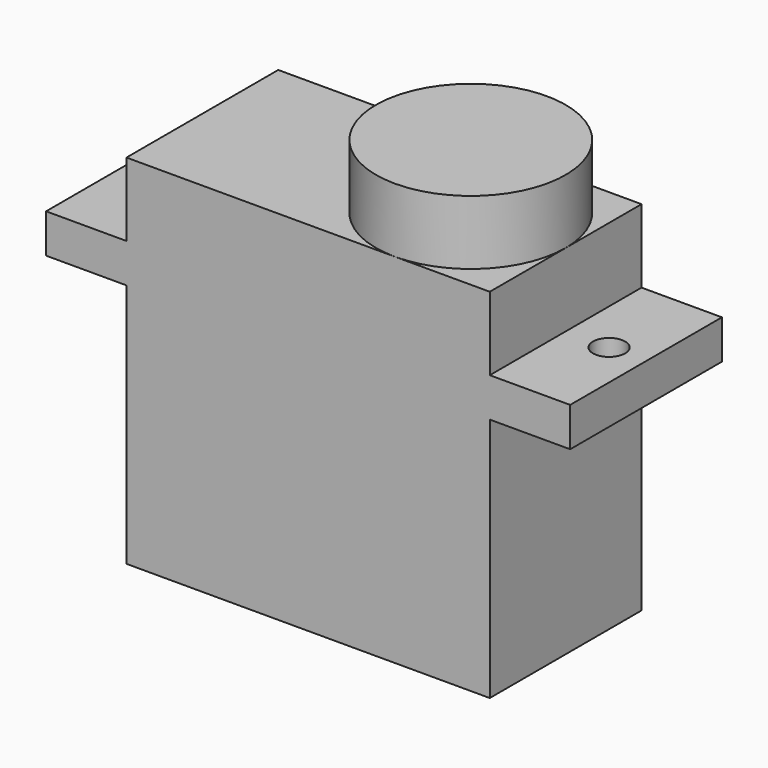
from build123d import *

# Parameters (mm, degrees)
F0_W     = 5
F0_H     = 11.8
F0_R     = 1
F1_DEPTH = 2.43
F2_DEPTH = 7
F3_DEPTH = 11
F4_DEPTH = 15.25


with BuildPart() as f1:
    # F0 (on Top) → F1 (new body)
    with BuildSketch(Plane.XY):
        with Locations((-19.2, 0)):
            Rectangle(F0_W, F0_H)
        with Locations((-19.4, 0)):
            Circle(F0_R, mode=Mode.SUBTRACT)
        with BuildLine():
            Line((6e-09, 5.9), (-16.7, 5.9))
            Line((-16.7, 5.9), (-16.7, -5.9))
            Line((-16.7, -5.9), (1.1e-09, -5.9))
            ThreePointArc((1.1e-09, -5.9), (-5.9, 2.4e-09), (6e-09, 5.9))
        make_face()
        with BuildLine():
            ThreePointArc((5.9, 0), (4.1719300111, 4.1719300069), (6e-09, 5.9))
            ThreePointArc((6e-09, 5.9), (-5.9, 2.4e-09), (1.1e-09, -5.9))
            ThreePointArc((1.1e-09, -5.9), (4.1719300094, -4.1719300086), (5.9, 0))
        make_face()
        with BuildLine():
            Line((5.9, 5.9), (6e-09, 5.9))
            ThreePointArc((6e-09, 5.9), (4.1719300111, 4.1719300069), (5.9, 0))
            Line((5.9, 0), (5.9, 5.9))
        make_face()
        with BuildLine():
            Line((5.9, -5.9), (5.9, 0))
            ThreePointArc((5.9, 0), (4.1719300094, -4.1719300086), (1.1e-09, -5.9))
            Line((1.1e-09, -5.9), (5.9, -5.9))
        make_face()
        Polygon((10.9, 5.9), (5.9, 5.9), (5.9, 0), (5.9, -5.9), (10.9, -5.9), align=None)
        with Locations((8.6, 0)):
            Circle(F0_R, mode=Mode.SUBTRACT)
    extrude(amount=F1_DEPTH)

    # F0 (on Top) → F2 (join)
    with BuildSketch(Plane.XY):
        with BuildLine():
            Line((6e-09, 5.9), (-16.7, 5.9))
            Line((-16.7, 5.9), (-16.7, -5.9))
            Line((-16.7, -5.9), (1.1e-09, -5.9))
            ThreePointArc((1.1e-09, -5.9), (-5.9, 2.4e-09), (6e-09, 5.9))
        make_face()
        with BuildLine():
            ThreePointArc((5.9, 0), (4.1719300111, 4.1719300069), (6e-09, 5.9))
            ThreePointArc((6e-09, 5.9), (-5.9, 2.4e-09), (1.1e-09, -5.9))
            ThreePointArc((1.1e-09, -5.9), (4.1719300094, -4.1719300086), (5.9, 0))
        make_face()
        with BuildLine():
            Line((5.9, -5.9), (5.9, 0))
            ThreePointArc((5.9, 0), (4.1719300094, -4.1719300086), (1.1e-09, -5.9))
            Line((1.1e-09, -5.9), (5.9, -5.9))
        make_face()
        with BuildLine():
            Line((5.9, 5.9), (6e-09, 5.9))
            ThreePointArc((6e-09, 5.9), (4.1719300111, 4.1719300069), (5.9, 0))
            Line((5.9, 0), (5.9, 5.9))
        make_face()
    extrude(amount=F2_DEPTH)

    # F0 (on Top) → F3 (join)
    with BuildSketch(Plane.XY):
        with BuildLine():
            ThreePointArc((5.9, 0), (4.1719300111, 4.1719300069), (6e-09, 5.9))
            ThreePointArc((6e-09, 5.9), (-5.9, 2.4e-09), (1.1e-09, -5.9))
            ThreePointArc((1.1e-09, -5.9), (4.1719300094, -4.1719300086), (5.9, 0))
        make_face()
    extrude(amount=F3_DEPTH)

    # F0 (on Top) → F4 (join)
    with BuildSketch(Plane.XY):
        with BuildLine():
            Line((6e-09, 5.9), (-16.7, 5.9))
            Line((-16.7, 5.9), (-16.7, -5.9))
            Line((-16.7, -5.9), (1.1e-09, -5.9))
            ThreePointArc((1.1e-09, -5.9), (-5.9, 2.4e-09), (6e-09, 5.9))
        make_face()
        with BuildLine():
            ThreePointArc((5.9, 0), (4.1719300111, 4.1719300069), (6e-09, 5.9))
            ThreePointArc((6e-09, 5.9), (-5.9, 2.4e-09), (1.1e-09, -5.9))
            ThreePointArc((1.1e-09, -5.9), (4.1719300094, -4.1719300086), (5.9, 0))
        make_face()
        with BuildLine():
            Line((5.9, -5.9), (5.9, 0))
            ThreePointArc((5.9, 0), (4.1719300094, -4.1719300086), (1.1e-09, -5.9))
            Line((1.1e-09, -5.9), (5.9, -5.9))
        make_face()
        with BuildLine():
            Line((5.9, 5.9), (6e-09, 5.9))
            ThreePointArc((6e-09, 5.9), (4.1719300111, 4.1719300069), (5.9, 0))
            Line((5.9, 0), (5.9, 5.9))
        make_face()
    extrude(amount=-F4_DEPTH)


solid = f1.part
